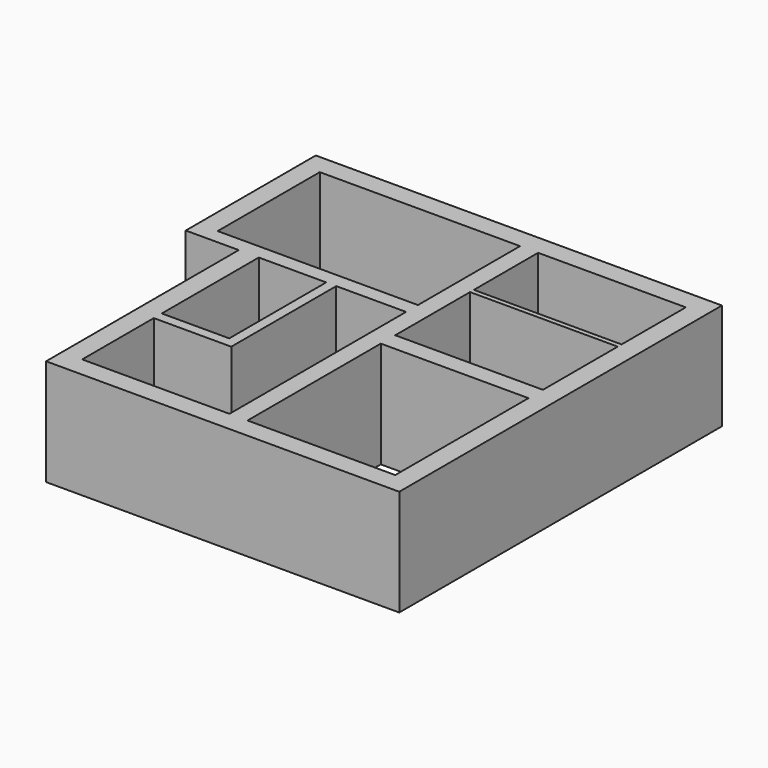
from build123d import *

# Parameters (mm, degrees)
F0_W     = 1680
F0_H     = 3020
F0_W_2   = 3680
F0_H_2   = 4150
F0_W_3   = 4990
F0_H_3   = 3180
F0_H_4   = 2330
F0_H_5   = 2000
F1_DEPTH = 2650


with BuildPart() as f1:
    # F0 (on Top) → F1 (new body)
    with BuildSketch(Plane.XY):
        Polygon((-6317.15601, -3488.657475), (-6317.15601, -9488.657475), (2482.84399, -9488.657475), (2482.84399, 561.342525), (-7637.15601, 561.342525), (-7637.15601, -3488.657475), align=None)
        Polygon((-2147.15601, -8988.657475), (-5817.15601, -8988.657475), (-5817.15601, -6758.657475), (-3887.15601, -6758.657475), (-3887.15601, -3488.657475), (-2147.15601, -3488.657475), align=None, mode=Mode.SUBTRACT)
        with Locations((-4977.15601, -4998.657475)):
            Rectangle(F0_W, F0_H, mode=Mode.SUBTRACT)
        with Locations((142.84399, -6913.657475)):
            Rectangle(F0_W_2, F0_H_2, mode=Mode.SUBTRACT)
        with Locations((-4642.15601, -1528.657475)):
            Rectangle(F0_W_3, F0_H_3, mode=Mode.SUBTRACT)
        with Locations((142.84399, -3223.657475)):
            Rectangle(F0_W_2, F0_H_4, mode=Mode.SUBTRACT)
        with Locations((142.84399, -938.657475)):
            Rectangle(F0_W_2, F0_H_5, mode=Mode.SUBTRACT)
    extrude(amount=F1_DEPTH)


solid = f1.part
